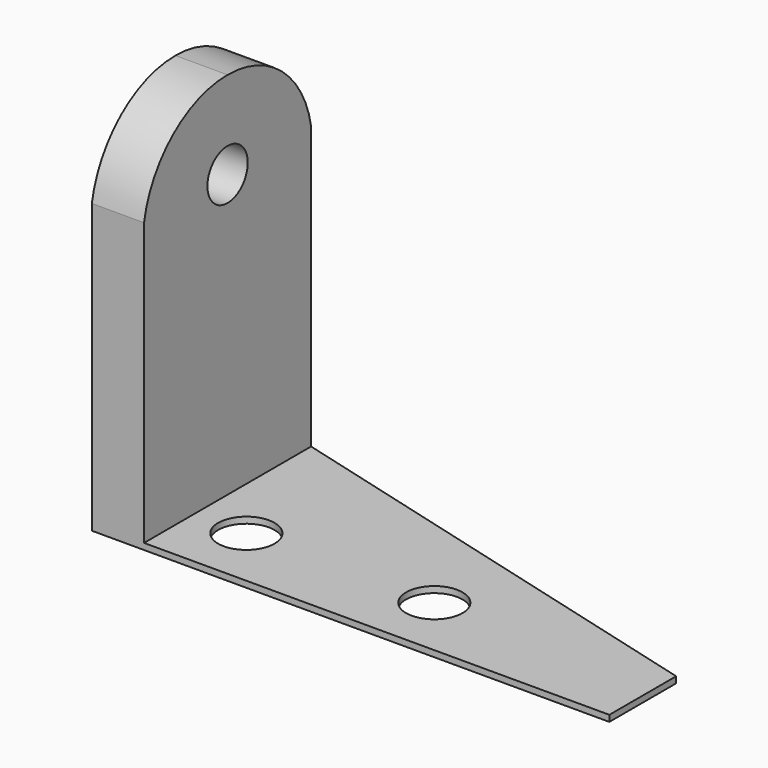
from build123d import *

# Parameters (mm, degrees)
F0_W     = 6.35
F0_H     = 25.4
F1_DEPTH = 45.72
F2_R     = 3.062636224
F3_DEPTH = 25.4
F5_DEPTH = 0.762
F6_DEPTH = 25.4
F7_R     = 3.429
F8_DEPTH = 25.4


with BuildPart() as f1:
    # F0 (on Top) → F1 (new body)
    with BuildSketch(Plane.XY):
        with Locations((3.175, -12.7)):
            Rectangle(F0_W, F0_H)
    extrude(amount=F1_DEPTH)

    # F2 (on face) → F3 (cut)
    with BuildSketch(Plane(origin=(0, 0, 0), x_dir=(0, -1, 0), z_dir=(-1, 0, 0))):
        with Locations((12.7, 35.052)):
            Circle(F2_R)
    extrude(amount=-F3_DEPTH, mode=Mode.SUBTRACT)

    # F0 (on Top) → F5 (join)
    with BuildSketch(Plane.XY):
        with Locations((3.175, -12.7)):
            Rectangle(F0_W, F0_H)
        Polygon((62.9475070931, -15.24), (6.35, 0), (6.35, -25.4), (62.9475070931, -25.4), align=None)
    extrude(amount=F5_DEPTH)

    # F4 (on face) → F6 (cut)
    with BuildSketch(Plane(origin=(0, 0, 0), x_dir=(0, -1, 0), z_dir=(-1, 0, 0))):
        with BuildLine():
            ThreePointArc((0, 35.052), (4.4069875196, 42.6991100957), (12.7, 45.72))
            Line((12.7, 45.72), (0, 45.72))
            Line((0, 45.72), (0, 35.052))
        make_face()
        with BuildLine():
            ThreePointArc((12.7, 45.72), (20.9930124804, 42.6991100957), (25.4, 35.052))
            Line((25.4, 35.052), (25.4, 45.72))
            Line((25.4, 45.72), (12.7, 45.72))
        make_face()
    extrude(amount=-F6_DEPTH, mode=Mode.SUBTRACT)

    # F7 (on face) → F8 (cut)
    with BuildSketch(Plane.XY.offset(0.762)):
        with Locations((12.7, -17.78)):
            Circle(F7_R)
        with Locations((35.56, -17.78)):
            Circle(F7_R)
    extrude(amount=-F8_DEPTH, mode=Mode.SUBTRACT)


solid = f1.part
